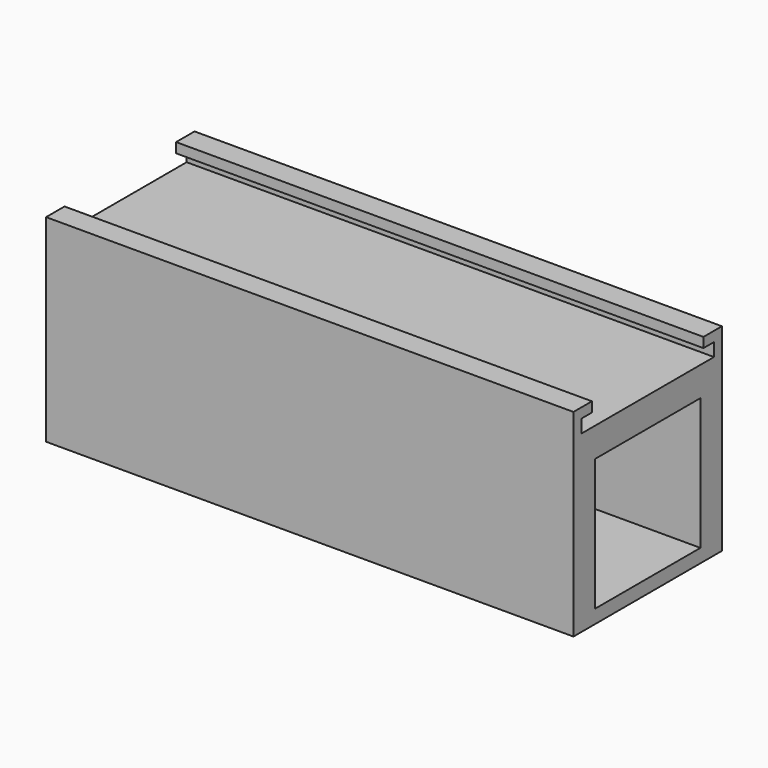
from build123d import *

# Parameters (mm, degrees)
F0_W     = 20
F0_H     = 20
F1_DEPTH = 80


with BuildPart() as f1:
    # F0 (on Right) → F1 (new body)
    with BuildSketch(Plane.YZ):
        Polygon((12.575, 0), (0, 0), (-12.575, 0), (-12.575, 2), (-10.575, 2), (-10.575, 3.5), (-14.075, 3.5), (-14.075, -26.5), (0, -26.5), (14.075, -26.5), (14.075, 3.5), (10.575, 3.5), (10.575, 2), (12.575, 2), align=None)
        with Locations((0, -14.441652)):
            Rectangle(F0_W, F0_H, mode=Mode.SUBTRACT)
    extrude(amount=F1_DEPTH)


solid = f1.part
